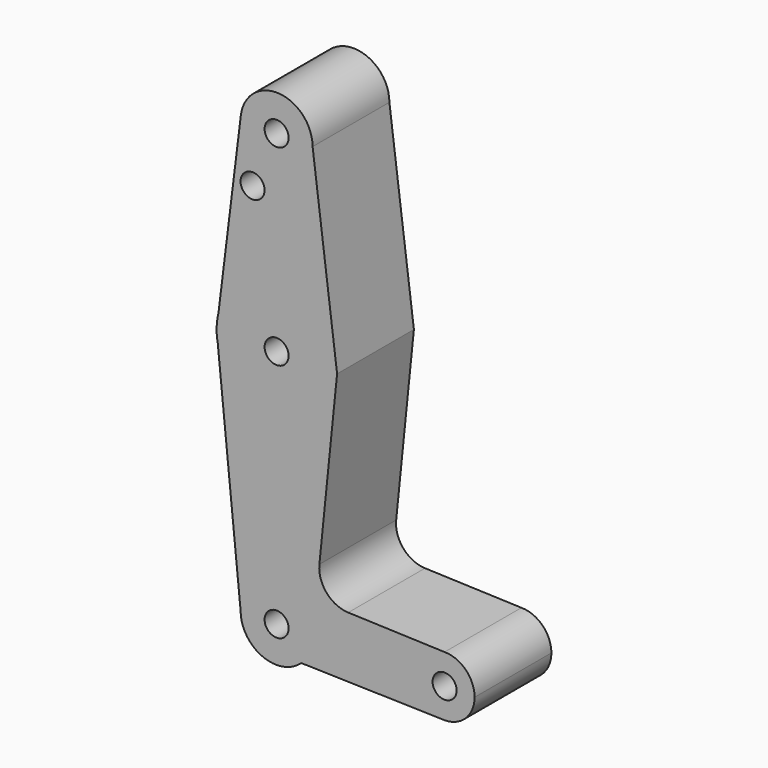
from build123d import *

# Parameters (mm, degrees)
F0_R     = 3.1753043082
F0_R_2   = 3.175
F1_DEPTH = 25.4


with BuildPart() as f1:
    # F0 (on Front) → F1 (new body)
    with BuildSketch(Plane.XZ):
        with BuildLine():
            ThreePointArc((-332.2287525456, -29.9237934306), (-323.3608388206, -40.5989558635), (-313.2506557863, -31.0919486679))
            ThreePointArc((-313.2506557863, -31.0919486679), (-322.190472752, -21.5849414723), (-332.2287525456, -29.9237934306))
        make_face()
        with Locations((-322.7756557863, -31.0919486679)):
            Circle(F0_R, mode=Mode.SUBTRACT)
        with BuildLine():
            Line((-307.0281988816, -79.8836593375), (-313.2506557863, -31.0919486679))
            ThreePointArc((-313.2506557863, -31.0919486679), (-323.3608388206, -40.5989558635), (-332.2287525456, -29.9237934306))
            Line((-332.2287525456, -29.9237934306), (-338.1731101491, -78.0274921541))
            ThreePointArc((-338.1731101491, -78.0274921541), (-338.169941937, -78.0148906454), (-338.1667634117, -78.002291734))
            ThreePointArc((-338.1667634117, -78.002291734), (-321.8182466694, -66.0458452736), (-307.0281988816, -79.8836593375))
        make_face()
        with Locations((-329.1366961219, -45.3667486679)):
            Circle(F0_R_2, mode=Mode.SUBTRACT)
        with BuildLine():
            Line((-306.7720796835, -81.8919486679), (-307.0281988816, -79.8836593375))
            ThreePointArc((-307.0281988816, -79.8836593375), (-306.9325736467, -80.8857810283), (-306.9006557863, -81.8919486679))
            ThreePointArc((-306.9006557863, -81.8919486679), (-321.2538360393, -97.6938374682), (-338.3588844046, -84.9215708936))
            Line((-338.3588844046, -84.9215708936), (-332.3006557863, -145.3919486679))
            ThreePointArc((-332.3006557863, -145.3919486679), (-322.7756557863, -135.8669486679), (-313.2506557863, -145.3919486679))
            ThreePointArc((-313.2506557863, -145.3919486679), (-314.0387414892, -149.1856215011), (-316.2725882935, -152.3515275477))
            Line((-316.2725882935, -152.3515275477), (-278.734495007, -153.3189125723))
            ThreePointArc((-278.734495007, -153.3189125723), (-286.2605213252, -145.187461188), (-278.3256557863, -137.4544486679))
            Line((-278.3256557863, -137.4544486679), (-303.8295879093, -136.5435939492))
            ThreePointArc((-303.8295879093, -136.5435939492), (-309.5400426519, -133.8210192864), (-311.4549762788, -127.7915304717))
            Line((-311.4549762788, -127.7915304717), (-306.7720796835, -81.8919486679))
        make_face()
        with BuildLine():
            ThreePointArc((-306.9006557863, -81.8919486679), (-306.9325736467, -80.8857810283), (-307.0281988816, -79.8836593375))
            ThreePointArc((-307.0281988816, -79.8836593375), (-321.8182466694, -66.0458452736), (-338.1667634117, -78.002291734))
            Line((-338.1667634117, -78.002291734), (-338.6506557863, -81.8919486679))
            ThreePointArc((-338.6506557863, -81.8919486679), (-338.6505386345, -81.9529368424), (-338.6501871806, -82.0139241168))
            Line((-338.6501871806, -82.0139241168), (-338.3588844046, -84.9215708936))
            ThreePointArc((-338.3588844046, -84.9215708936), (-321.2538360393, -97.6938374682), (-306.9006557863, -81.8919486679))
        make_face()
        with Locations((-322.7756557863, -81.8919486679)):
            Circle(F0_R_2, mode=Mode.SUBTRACT)
        with BuildLine():
            Line((-338.6506557863, -81.8919486679), (-338.1731101491, -78.0274921541))
            ThreePointArc((-338.1731101491, -78.0274921541), (-338.5308170519, -79.9450232724), (-338.6506557863, -81.8919486679))
        make_face()
        with BuildLine():
            ThreePointArc((-338.1667634117, -78.002291734), (-338.169941937, -78.0148906454), (-338.1731101491, -78.0274921541))
            Line((-338.1731101491, -78.0274921541), (-338.6506557863, -81.8919486679))
            Line((-338.6506557863, -81.8919486679), (-338.1667634117, -78.002291734))
        make_face()
        with BuildLine():
            ThreePointArc((-338.6501871806, -82.0139241168), (-338.5715814856, -83.4744644822), (-338.3588844046, -84.9215708936))
            Line((-338.3588844046, -84.9215708936), (-338.6501871806, -82.0139241168))
        make_face()
        with BuildLine():
            ThreePointArc((-313.2506557863, -145.3919486679), (-322.7756557863, -135.8669486679), (-332.3006557863, -145.3919486679))
            ThreePointArc((-332.3006557863, -145.3919486679), (-326.5693286195, -154.128862965), (-316.2725882935, -152.3515275477))
            ThreePointArc((-316.2725882935, -152.3515275477), (-314.0387414892, -149.1856215011), (-313.2506557863, -145.3919486679))
        make_face()
        with Locations((-322.7756557863, -145.3919486679)):
            Circle(F0_R_2, mode=Mode.SUBTRACT)
        with BuildLine():
            ThreePointArc((-270.3881557863, -145.3919486679), (-272.7129957106, -139.7792885922), (-278.3256557863, -137.4544486679))
            ThreePointArc((-278.3256557863, -137.4544486679), (-286.2605213252, -145.187461188), (-278.734495007, -153.3189125723))
            Line((-278.734495007, -153.3189125723), (-278.3256557863, -153.3294486679))
            ThreePointArc((-278.3256557863, -153.3294486679), (-272.7129957106, -151.0046087436), (-270.3881557863, -145.3919486679))
        make_face()
        with Locations((-278.3256557863, -145.3919486679)):
            Circle(F0_R_2, mode=Mode.SUBTRACT)
        with BuildLine():
            Line((-278.3256557863, -153.3294486679), (-278.734495007, -153.3189125723))
            ThreePointArc((-278.734495007, -153.3189125723), (-278.5301432662, -153.3268142068), (-278.3256557863, -153.3294486679))
        make_face()
    extrude(amount=F1_DEPTH)


solid = f1.part
